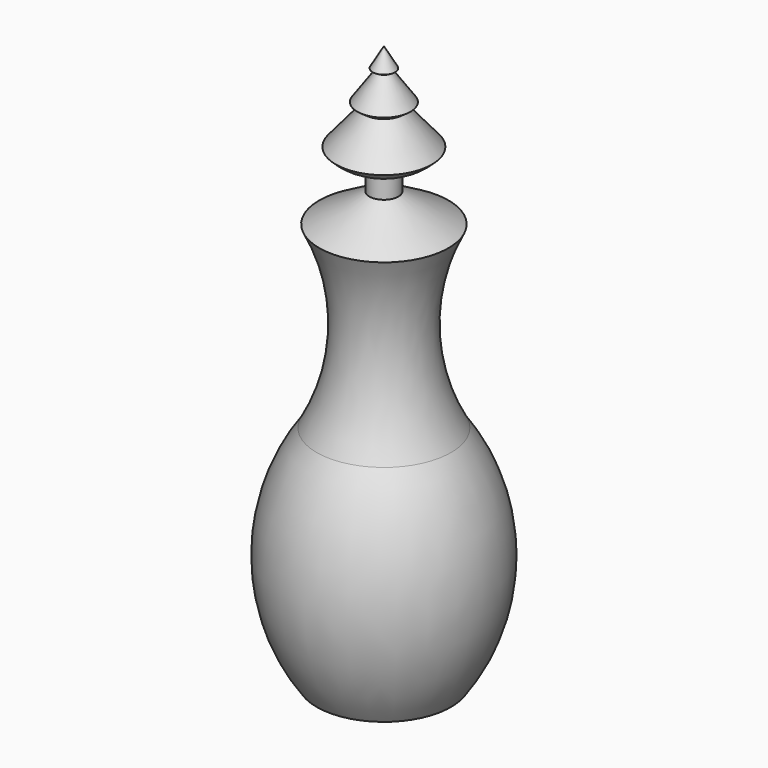
from build123d import *


with BuildPart() as f1:
    # F0 (on Front) → F1 (revolve)
    with BuildSketch(Plane.XZ):
        with BuildLine():
            Line((-7.62, -63.5), (0, -63.5))
            Line((0, -63.5), (0, 0))
            Line((0, 0), (-1.27, -2.199705))
            Line((-1.27, -2.199705), (-0.830059, -2.453705))
            Line((-0.830059, -2.453705), (-3.015385, -5.574674))
            Line((-3.015385, -5.574674), (-2.183127, -6.157427))
            Line((-2.183127, -6.157427), (-5.448488, -10.048933))
            ThreePointArc((-5.448488, -10.048933), (-3.707992, -11.330441), (-1.638488, -11.953933))
            Line((-1.638488, -11.953933), (-1.638488, -14.493933))
            Line((-1.638488, -14.493933), (-7.330122, -17.78))
            ThreePointArc((-7.330122, -17.78), (-4.934768, -27.976239), (-7.62, -38.1))
            ThreePointArc((-7.62, -38.1), (-11.750387, -50.8), (-7.62, -63.5))
        make_face()
    revolve(axis=Axis((0, 0, -31.75), (0, 0, -1)))


solid = f1.part
